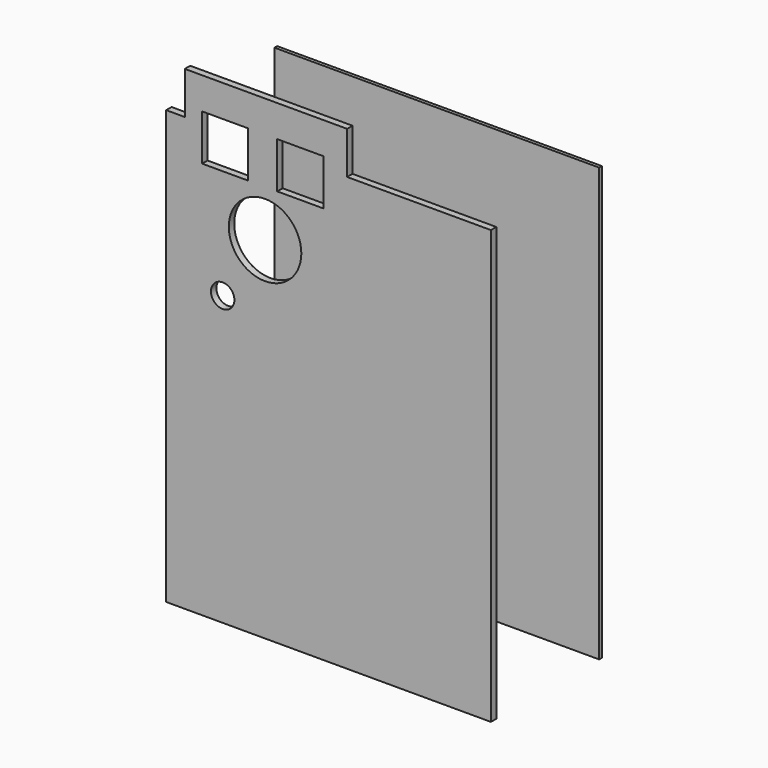
from build123d import *

# Parameters (mm, degrees)
F0_W     = 304.8
F0_H     = 406.4
F1_DEPTH = 3.175
F3_R     = 11
F3_R_2   = 34.036
F5_DEPTH = 6.35


with BuildPart() as f1:
    # F0 (on Front) → F1 (new body)
    with BuildSketch(Plane.XZ):
        with Locations((152.4, 203.2)):
            Rectangle(F0_W, F0_H)
    extrude(amount=-F1_DEPTH)


with BuildPart() as f5:
    # F3 (on offset) → F5 (new body)
    with BuildSketch(Plane.XZ.offset(127)):
        Polygon((33.7773003054, 406.4), (33.7773003054, 416.3452088833), (76.9573003054, 416.3452088833), (76.9573003054, 406.4), (104.271531105, 406.4), (104.271531105, 416.3452088833), (147.451531105, 416.3452088833), (147.451531105, 406.4), (169.857814908, 406.4), (169.857814908, 446.1813612461), (17.457814908, 446.1813612461), (17.457814908, 406.4), align=None)
        Polygon((33.7773003054, 373.1652088833), (33.7773003054, 406.4), (17.457814908, 406.4), (17.457814908, 242.9813612461), (169.857814908, 242.9813612461), (169.857814908, 406.4), (147.451531105, 406.4), (147.451531105, 373.1652088833), (104.271531105, 373.1652088833), (104.271531105, 406.4), (76.9573003054, 406.4), (76.9573003054, 373.1652088833), align=None)
        with Locations((53.0323646963, 270.3256607056)):
            Circle(F3_R, mode=Mode.SUBTRACT)
        with Locations((92.83824265, 329.2357623577)):
            Circle(F3_R_2, mode=Mode.SUBTRACT)
        Polygon((17.457814908, 242.9813612461), (17.457814908, 406.4), (0, 406.4), (0, 0), (304.8, 0), (304.8, 406.4), (169.857814908, 406.4), (169.857814908, 242.9813612461), align=None)
    extrude(amount=-F5_DEPTH)


solid = Compound([f1.part, f5.part])
